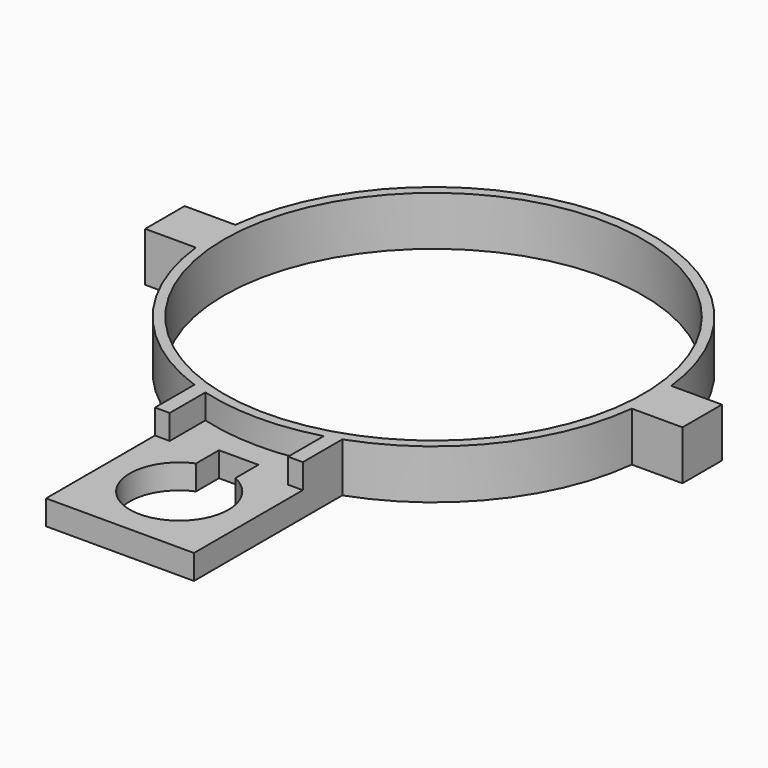
from build123d import *

# Parameters (mm, degrees)
F1_DEPTH = 10
F2_DEPTH = 5


with BuildPart() as f1:
    # F0 (on Top) → F1 (new body)
    with BuildSketch(Plane.XY):
        with BuildLine():
            ThreePointArc((-44.218208919, -5), (-44.5, 0), (-44.218208919, 5))
            Line((-44.218208919, 5), (-54.5, 5))
            Line((-54.5, 5), (-54.5, -5))
            Line((-54.5, -5), (-44.218208919, -5))
        make_face()
        with BuildLine():
            Line((54.5, 5), (44.218208919, 5))
            ThreePointArc((44.218208919, 5), (44.4294963785, 2.503967163), (44.5, 0))
            ThreePointArc((44.5, 0), (44.4294963785, -2.503967163), (44.218208919, -5))
            Line((44.218208919, -5), (54.5, -5))
            Line((54.5, -5), (54.5, 5))
        make_face()
        with BuildLine():
            Line((42.5, -5), (42.5, 0))
            ThreePointArc((42.5, 0), (0, -42.5), (-42.5, 0))
            Line((-42.5, 0), (-42.5, -5))
            Line((-42.5, -5), (-44.218208919, -5))
            ThreePointArc((-44.218208919, -5), (-34.885846805, -27.626575841), (-15, -41.895703837))
            Line((-15, -41.895703837), (-12, -41.895703837))
            Line((-12, -41.895703837), (-12, -42.8514877221))
            ThreePointArc((-12, -42.8514877221), (0, -44.5), (12, -42.8514877221))
            Line((12, -42.8514877221), (12, -41.895703837))
            Line((12, -41.895703837), (15, -41.895703837))
            ThreePointArc((15, -41.895703837), (34.885846805, -27.626575841), (44.218208919, -5))
            Line((44.218208919, -5), (42.5, -5))
        make_face()
        with BuildLine():
            Line((42.5, 5), (42.5, 0))
            Line((42.5, 0), (42.5, -5))
            Line((42.5, -5), (44.218208919, -5))
            ThreePointArc((44.218208919, -5), (44.4294963785, -2.503967163), (44.5, 0))
            ThreePointArc((44.5, 0), (44.4294963785, 2.503967163), (44.218208919, 5))
            Line((44.218208919, 5), (42.5, 5))
        make_face()
        with BuildLine():
            ThreePointArc((-42.5, 0), (0, 42.5), (42.5, 0))
            Line((42.5, 0), (42.5, 5))
            Line((42.5, 5), (44.218208919, 5))
            ThreePointArc((44.218208919, 5), (0, 44.5), (-44.218208919, 5))
            Line((-44.218208919, 5), (-42.5, 5))
            Line((-42.5, 5), (-42.5, 0))
        make_face()
        with BuildLine():
            Line((-42.5, -5), (-42.5, 0))
            Line((-42.5, 0), (-42.5, 5))
            Line((-42.5, 5), (-44.218208919, 5))
            ThreePointArc((-44.218208919, 5), (-44.5, 0), (-44.218208919, -5))
            Line((-44.218208919, -5), (-42.5, -5))
        make_face()
        with BuildLine():
            Line((15, -51.895703837), (15, -41.895703837))
            ThreePointArc((15, -41.895703837), (13.5084558965, -42.4001370197), (12, -42.8514877221))
            Line((12, -42.8514877221), (12, -51.895703837))
            Line((12, -51.895703837), (15, -51.895703837))
        make_face()
        with BuildLine():
            ThreePointArc((-12, -42.8514877221), (-13.5084558965, -42.4001370197), (-15, -41.895703837))
            Line((-15, -41.895703837), (-15, -51.895703837))
            Line((-15, -51.895703837), (-12, -51.895703837))
            Line((-12, -51.895703837), (-12, -42.8514877221))
        make_face()
        with BuildLine():
            Line((-12, -41.895703837), (-15, -41.895703837))
            ThreePointArc((-15, -41.895703837), (-13.5084558965, -42.4001370197), (-12, -42.8514877221))
            Line((-12, -42.8514877221), (-12, -41.895703837))
        make_face()
        with BuildLine():
            ThreePointArc((12, -42.8514877221), (13.5084558965, -42.4001370197), (15, -41.895703837))
            Line((15, -41.895703837), (12, -41.895703837))
            Line((12, -41.895703837), (12, -42.8514877221))
        make_face()
    extrude(amount=F1_DEPTH)

    # F0 (on Top) → F2 (join)
    with BuildSketch(Plane.XY):
        with BuildLine():
            Line((12, -51.895703837), (12, -42.8514877221))
            ThreePointArc((12, -42.8514877221), (0, -44.5), (-12, -42.8514877221))
            Line((-12, -42.8514877221), (-12, -51.895703837))
            Line((-12, -51.895703837), (-15, -51.895703837))
            Line((-15, -51.895703837), (-15, -79.5))
            Line((-15, -79.5), (15, -79.5))
            Line((15, -79.5), (15, -51.895703837))
            Line((15, -51.895703837), (12, -51.895703837))
        make_face()
        with BuildLine():
            ThreePointArc((4.0721059777, -55.3666570793), (8.3881183759, -59.0557856295), (10, -64.5))
            ThreePointArc((10, -64.5), (-5.5100390097, -72.8450266693), (-3.9278940223, -55.303715503))
            Line((-3.9278940223, -55.303715503), (-3.9278940223, -49.5))
            Line((-3.9278940223, -49.5), (4.0721059777, -49.5))
            Line((4.0721059777, -49.5), (4.0721059777, -55.3666570793))
        make_face(mode=Mode.SUBTRACT)
    extrude(amount=F2_DEPTH)


solid = f1.part
